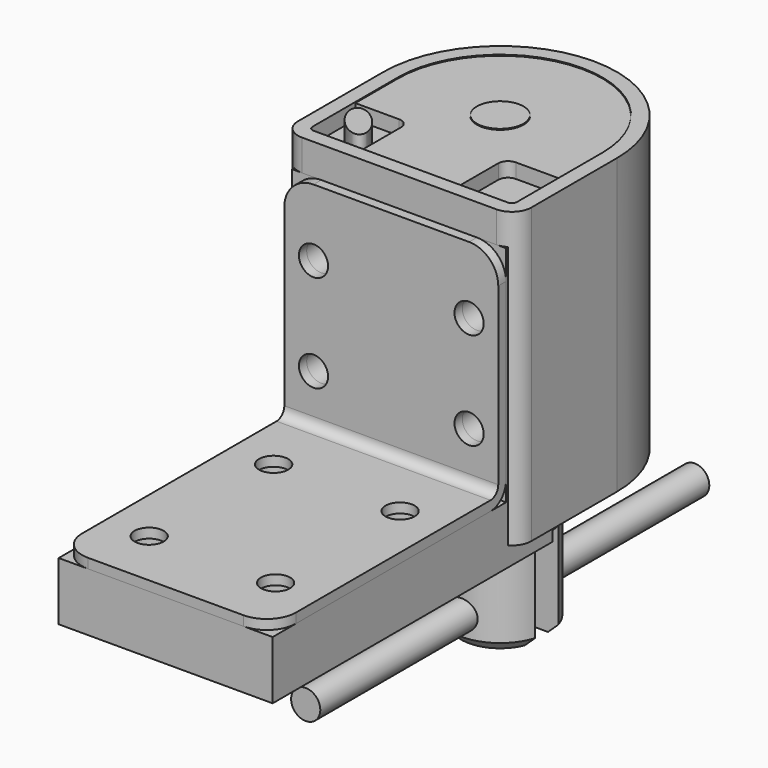
from build123d import *

# Parameters (mm, degrees)
F1_DEPTH  = 30.2
F2_R      = 5
F3_DEPTH  = 25
F4_DEPTH  = 16
F5_R      = 2
F6_SIZE   = 2
F7_SIZE   = 1
F8_W      = 3
F8_H      = 10
F9_DEPTH  = 12.5
F10_R     = 1.5
F11_DEPTH = 12.5
F12_DEPTH = 25
F13_R     = 2.4
F14_DEPTH = 0.1
F16_DEPTH = 1.5
F18_R     = 1.5
F19_DEPTH = 3
F20_DEPTH = 2
F22_DEPTH = 11
F23_DEPTH = 3
F24_R     = 1.5
F25_DEPTH = 25
F26_R     = 3
F28_DEPTH = 11
F29_R     = 1.75
F30_DEPTH = 25
F31_R     = 1.75
F32_DEPTH = 25


with BuildPart() as f1:
    # F0 (on Top) → F1 (new body)
    with BuildSketch(Plane.XY):
        with BuildLine():
            Line((12, -13), (12, 0))
            ThreePointArc((12, 0), (0, 12), (-12, 0))
            Line((-12, 0), (-12, -13))
            Line((-12, -13), (12, -13))
        make_face()
    extrude(amount=-F1_DEPTH)

    # F2 (on face) → F3 (cut)
    with BuildSketch(Plane(origin=(0, 0, -30.2), x_dir=(1, 0, 0), z_dir=(0, 0, -1))):
        Circle(F2_R)
    extrude(amount=-F3_DEPTH, mode=Mode.SUBTRACT)

    # F5
    f5_edges = [f1.edges().sort_by_distance(p)[0] for p in [
        (12, -13, -15.1),
        (-12, -13, -15.1),
    ]]
    fillet(f5_edges, radius=F5_R)

    # F13 (on face) → F14 (cut)
    with BuildSketch(Plane.XY):
        with BuildLine():
            Line((-10.5, 0), (-10.5, -11))
            ThreePointArc((-10.5, -11), (-10.3535533906, -11.3535533906), (-10, -11.5))
            Line((-10, -11.5), (10, -11.5))
            ThreePointArc((10, -11.5), (10.3535533906, -11.3535533906), (10.5, -11))
            Line((10.5, -11), (10.5, 0))
            ThreePointArc((10.5, 0), (0, 10.5), (-10.5, 0))
        make_face()
        Circle(F13_R, mode=Mode.SUBTRACT)
    extrude(amount=-F14_DEPTH, mode=Mode.SUBTRACT)

    # F15 (on face) → F16 (cut)
    with BuildSketch(Plane.XY.offset(-0.1)):
        with BuildLine():
            Line((-5, -11.5), (-5, -6.5))
            ThreePointArc((-5, -6.5), (-5.2928932188, -5.7928932188), (-6, -5.5))
            Line((-6, -5.5), (-10.5, -5.5))
            Line((-10.5, -5.5), (-10.5, -11))
            ThreePointArc((-10.5, -11), (-10.3535533906, -11.3535533906), (-10, -11.5))
            Line((-10, -11.5), (-5, -11.5))
        make_face()
        with BuildLine():
            ThreePointArc((6, -5.5), (5.2928932188, -5.7928932188), (5, -6.5))
            Line((5, -6.5), (5, -11.5))
            Line((5, -11.5), (10, -11.5))
            ThreePointArc((10, -11.5), (10.3535533906, -11.3535533906), (10.5, -11))
            Line((10.5, -11), (10.5, -5.5))
            Line((10.5, -5.5), (6, -5.5))
        make_face()
    extrude(amount=-F16_DEPTH, mode=Mode.SUBTRACT)

    # F18 (on face) → F19 (cut)
    with BuildSketch(Plane.XZ.offset(13)):
        with Locations((-8, -10.1)):
            Circle(F18_R)
        with Locations((8, -10.1)):
            Circle(F18_R)
        with Locations((-8, -20.1)):
            Circle(F18_R)
        with Locations((8, -20.1)):
            Circle(F18_R)
    extrude(amount=-F19_DEPTH, mode=Mode.SUBTRACT)

    # F17 (on face) → F20 (join)
    with BuildSketch(Plane.XY.offset(-1.6)):
        with BuildLine():
            add(Edge.make_bspline(
                [(-9.2814238078, -6.8089063049), (-10.7196754493, -8.0804039659), (-7.6988400017, -10.0482286617), (-4.6780045542, -12.0160533576), (-6.2605883602, -8.7767310007), (-7.8431721663, -5.5374086439), (-9.2814238078, -6.8089063049)],
                knots=[0, 0, 0, 2.0943951024, 2.0943951024, 4.1887902048, 4.1887902048, 6.2831853072, 6.2831853072, 6.2831853072], degree=2, weights=[1, 0.5, 1, 0.5, 1, 0.5, 1]))
        make_face()
    extrude(amount=F20_DEPTH)


with BuildPart() as f4:
    # F2 (on face) → F4 (new body, symmetric)
    with BuildSketch(Plane(origin=(0, 0, -30.2), x_dir=(1, 0, 0), z_dir=(0, 0, -1))):
        Circle(F2_R)
    extrude(amount=F4_DEPTH, both=True)

    # F6
    f6_edges = [f4.edges().sort_by_distance(p)[0] for p in [
        (-5, 0, -14.2),
    ]]
    chamfer(f6_edges, length=F6_SIZE)

    # F7
    f7_edges = [f4.edges().sort_by_distance(p)[0] for p in [
        (-5, 0, -46.2),
    ]]
    chamfer(f7_edges, length=F7_SIZE)

    # F8 (on Right) → F9 (cut, symmetric)
    with BuildSketch(Plane.YZ):
        with Locations((0, -41.2)):
            Rectangle(F8_W, F8_H)
    extrude(amount=F9_DEPTH, both=True, mode=Mode.SUBTRACT)

    # F10 (on Front) → F11 (cut, symmetric)
    with BuildSketch(Plane.XZ):
        with Locations((0, -43.2)):
            Circle(F10_R)
    extrude(amount=F11_DEPTH, both=True, mode=Mode.SUBTRACT)


with BuildPart() as f12:
    # F10 (on Front) → F12 (new body, symmetric)
    with BuildSketch(Plane.XZ):
        with Locations((0, -43.2)):
            Circle(F10_R)
    extrude(amount=F12_DEPTH, both=True)


with BuildPart() as f22:
    # F21 (on Right) → F22 (new body, symmetric)
    with BuildSketch(Plane.YZ):
        with BuildLine():
            Line((-13, -24.2), (-13, -3.2))
            Line((-13, -3.2), (-14, -3.2))
            Line((-14, -3.2), (-14, -24.2))
            ThreePointArc((-14, -24.2), (-14.2928932188, -24.9071067812), (-15, -25.2))
            Line((-15, -25.2), (-43, -25.2))
            Line((-43, -25.2), (-43, -26.2))
            Line((-43, -26.2), (-15, -26.2))
            ThreePointArc((-15, -26.2), (-13.5857864376, -25.6142135624), (-13, -24.2))
        make_face()
    extrude(amount=F22_DEPTH, both=True)

    # F18 (on face) → F23 (cut)
    with BuildSketch(Plane.XZ.offset(13)):
        with Locations((-8, -10.1)):
            Circle(F18_R)
        with Locations((8, -10.1)):
            Circle(F18_R)
        with Locations((-8, -20.1)):
            Circle(F18_R)
        with Locations((8, -20.1)):
            Circle(F18_R)
    extrude(amount=F23_DEPTH, mode=Mode.SUBTRACT)

    # F24 (on face) → F25 (cut)
    with BuildSketch(Plane.XY.offset(-25.2)):
        with Locations((6.5, -21)):
            Circle(F24_R)
        with Locations((6.5, -37)):
            Circle(F24_R)
        with Locations((-6.5, -37)):
            Circle(F24_R)
        with Locations((-6.5, -21)):
            Circle(F24_R)
    extrude(amount=-F25_DEPTH, mode=Mode.SUBTRACT)

    # F26
    f26_edges = [f22.edges().sort_by_distance(p)[0] for p in [
        (-11, -13.5, -3.2),
        (11, -13.5, -3.2),
        (11, -43, -25.7),
        (-11, -43, -25.7),
    ]]
    fillet(f26_edges, radius=F26_R)


with BuildPart() as f28:
    # F27 (on Right) → F28 (new body, symmetric)
    with BuildSketch(Plane.YZ):
        Polygon((-13, -26.2), (-43, -26.2), (-43, -32.2), (-7, -32.2), (-7, -3.2), (-13, -3.2), align=None)
    extrude(amount=F28_DEPTH, both=True)

    # F29 (on face) → F30 (cut)
    with BuildSketch(Plane.XY.offset(-26.2)):
        with Locations((-6.5, -21)):
            Circle(F29_R)
        with Locations((6.5, -21)):
            Circle(F29_R)
        with Locations((-6.5, -37)):
            Circle(F29_R)
        with Locations((6.5, -37)):
            Circle(F29_R)
    extrude(amount=-F30_DEPTH, mode=Mode.SUBTRACT)

    # F31 (on face) → F32 (cut)
    with BuildSketch(Plane.XZ.offset(13)):
        with Locations((-8, -10.1)):
            Circle(F31_R)
        with Locations((8, -10.1)):
            Circle(F31_R)
        with Locations((8, -20.1)):
            Circle(F31_R)
        with Locations((-8, -20.1)):
            Circle(F31_R)
    extrude(amount=-F32_DEPTH, mode=Mode.SUBTRACT)


solid = Compound([f1.part, f4.part, f12.part, f22.part, f28.part])
